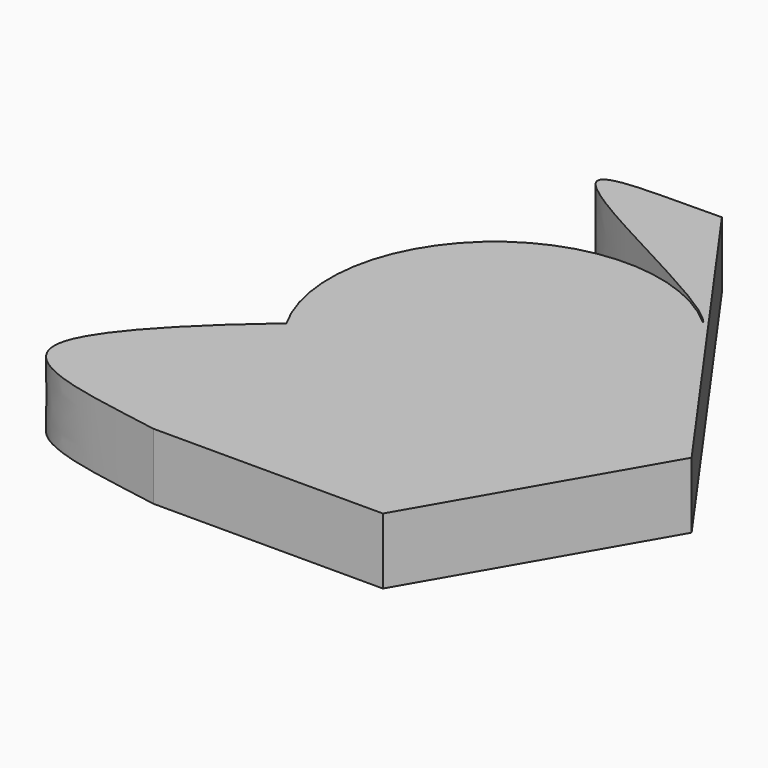
from build123d import *

# Parameters (mm, degrees)
F1_DEPTH = 25.4


with BuildPart() as f1:
    # F0 (on Top) → F1 (new body)
    with BuildSketch(Plane.XY):
        with BuildLine():
            ThreePointArc((-11.7081835018, -7.7665143543), (59.6811480437, -38.127330417), (107.1000091665, 23.2702869661))
            ThreePointArc((107.1000091665, 23.2702869661), (104.1082493558, 42.5252029756), (95.4150658412, 59.9645543878))
            ThreePointArc((95.4150658412, 59.9645543878), (90.9311124747, 65.5864743042), (85.839894487, 70.6649899084))
            add(Edge.make_bspline(
                [(85.839894487, 70.6649899084), (87.6005318882, 68.0998092399), (85.9514364748, 65.7543116615), (86.1645179317, 65.8607681858), (28.4050818403, 26.6517596455), (-11.7081835018, -7.7665143543)],
                knots=[0.4006748205, 0.4006748205, 0.4006748205, 0.4006748205, 0.4535750536, 0.4733015683, 0.6871358358, 0.6871358358, 0.6871358358, 0.6871358358], degree=3))
        make_face()
        with BuildLine():
            ThreePointArc((95.4150658412, 59.9645543878), (104.1082493558, 42.5252029756), (107.1000091665, 23.2702869661))
            ThreePointArc((107.1000091665, 23.2702869661), (59.6811480437, -38.127330417), (-11.7081835018, -7.7665143543))
            add(Edge.make_bspline(
                [(-11.7081835018, -7.7665143543), (-34.2010392805, -27.065997122), (-82.4164228968, -76.2103782849), (-29.6834002558, -80.8748349345), (0, -86.2805619836)],
                knots=[0.6871358358, 0.6871358358, 0.6871358358, 0.6871358358, 0.8070398949, 1, 1, 1, 1], degree=3))
            Line((0, -86.2805619836), (88.2210006001, -86.2805619836))
            Line((88.2210006001, -86.2805619836), (137.915045023, 0))
            Line((137.915045023, 0), (95.4150658412, 59.9645543878))
        make_face()
        with BuildLine():
            ThreePointArc((85.839894487, 70.6649899084), (90.9311124747, 65.5864743042), (95.4150658412, 59.9645543878))
            Line((95.4150658412, 59.9645543878), (47.3727946642, 127.7489024833))
            add(Edge.make_bspline(
                [(47.3727946642, 127.7489024833), (24.7222504454, 127.194182006), (-36.893516181, 131.0354918084), (77.878779773, 82.2640264565), (85.839894487, 70.6649899084)],
                knots=[0, 0, 0, 0, 0.1614746174, 0.4006748205, 0.4006748205, 0.4006748205, 0.4006748205], degree=3))
        make_face()
        with BuildLine():
            ThreePointArc((85.839894487, 70.6649899084), (3.8786648091, 72.7253384391), (-11.7081835018, -7.7665143543))
            add(Edge.make_bspline(
                [(85.839894487, 70.6649899084), (87.6005318882, 68.0998092399), (85.9514364748, 65.7543116615), (86.1645179317, 65.8607681858), (28.4050818403, 26.6517596455), (-11.7081835018, -7.7665143543)],
                knots=[0.4006748205, 0.4006748205, 0.4006748205, 0.4006748205, 0.4535750536, 0.4733015683, 0.6871358358, 0.6871358358, 0.6871358358, 0.6871358358], degree=3))
        make_face()
    extrude(amount=F1_DEPTH)


solid = f1.part
